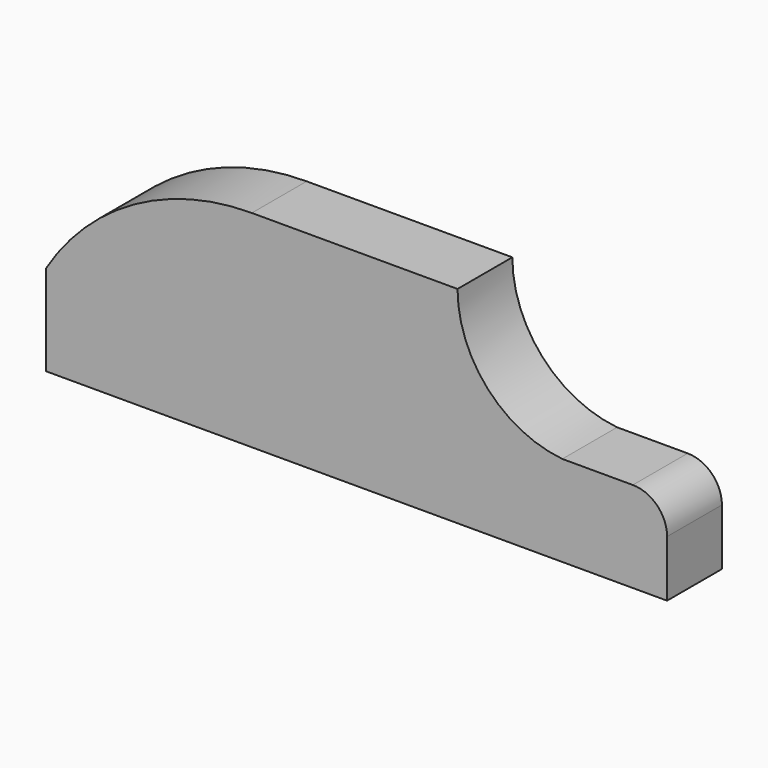
from build123d import *

# Parameters (mm, degrees)
F0_W     = 76.2637332082
F0_H     = 33.6211510003
F0_W_2   = 76.2320831418
F0_H_2   = 42.8359024227
F1_DEPTH = 25.4
F2_R     = 12.7


with BuildPart() as f1:
    # F0 (on Front) → F1 (new body)
    with BuildSketch(Plane.XZ):
        with BuildLine():
            Line((-76.2637332082, 33.6211510003), (0, 33.6211510003))
            Line((0, 33.6211510003), (0, 76.4570534229))
            ThreePointArc((0, 76.4570534229), (-43.7352018951, 65.015109335), (-76.2637332082, 33.6211510003))
        make_face()
        with Locations((-38.1318666041, 16.8105755001)):
            Rectangle(F0_W, F0_H)
        with Locations((38.1160415709, 16.8105755001)):
            Rectangle(F0_W_2, F0_H)
        with Locations((38.1160415709, 55.0391022116)):
            Rectangle(F0_W_2, F0_H_2)
        Polygon((76.2320831418, 33.6211510003), (76.2320831418, 0), (153.9078503847, 0), (153.9078503847, 33.6211510003), (115.0699667633, 33.6211510003), align=None)
        with BuildLine():
            Line((76.2320831418, 76.4570534229), (76.2320831418, 33.6211510003))
            Line((76.2320831418, 33.6211510003), (115.0699667633, 33.6211510003))
            ThreePointArc((115.0699667633, 33.6211510003), (87.3870520199, 47.5464336589), (76.2320831418, 76.4570534229))
        make_face()
    extrude(amount=F1_DEPTH)

    # F2
    f2_edges = [f1.edges().sort_by_distance(p)[0] for p in [
        (153.90785, -12.7, 33.621151),
    ]]
    fillet(f2_edges, radius=F2_R)


solid = f1.part
